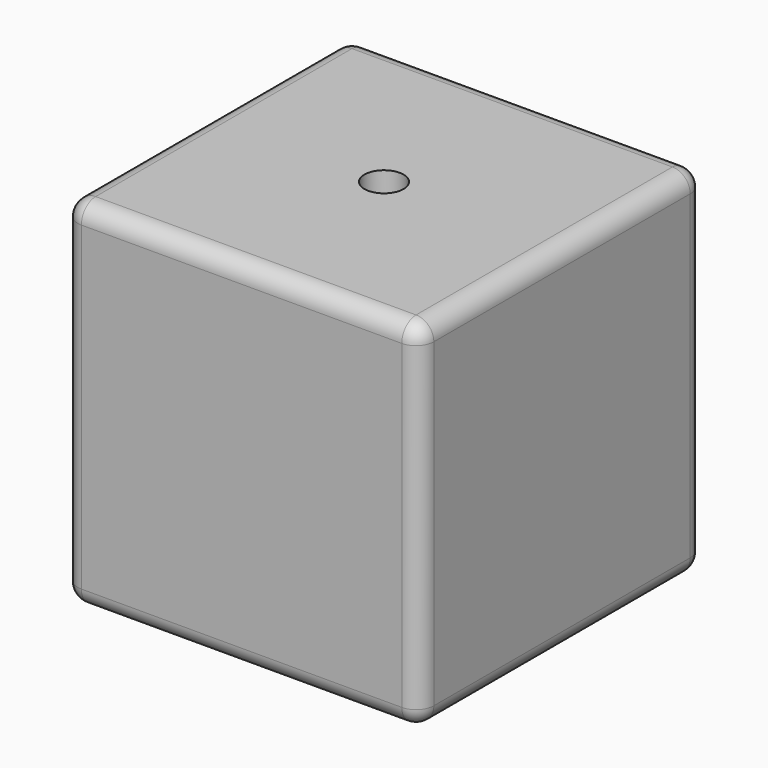
from build123d import *

# Parameters (mm, degrees)
F0_W     = 25.4
F0_H     = 25.4
F1_DEPTH = 25.4
F2_R     = 1.27
F3_R     = 1.397249
F4_DEPTH = 3.175


with BuildPart() as f1:
    # F0 (on Front) → F1 (new body)
    with BuildSketch(Plane.XZ):
        with Locations((19.639693, 1.331531)):
            Rectangle(F0_W, F0_H)
    extrude(amount=F1_DEPTH)

    # F2
    f2_edges = [f1.edges().sort_by_distance(p)[0] for p in [
        (6.939693, -12.7, 14.031531),
        (19.639693, -25.4, 14.031531),
        (6.939693, -12.7, -11.368469),
        (6.939693, 0, 1.331531),
        (6.939693, -25.4, 1.331531),
        (19.639693, 0, -11.368469),
        (32.339693, -12.7, -11.368469),
        (32.339693, -12.7, 14.031531),
        (32.339693, 0, 1.331531),
        (32.339693, -25.4, 1.331531),
        (19.639693, 0, 14.031531),
        (19.639693, -25.4, -11.368469),
    ]]
    fillet(f2_edges, radius=F2_R)

    # F3 (on face) → F4 (cut)
    with BuildSketch(Plane.XY.offset(14.031531)):
        with Locations((19.639693, -12.7)):
            Circle(F3_R)
    extrude(amount=-F4_DEPTH, mode=Mode.SUBTRACT)


solid = f1.part
